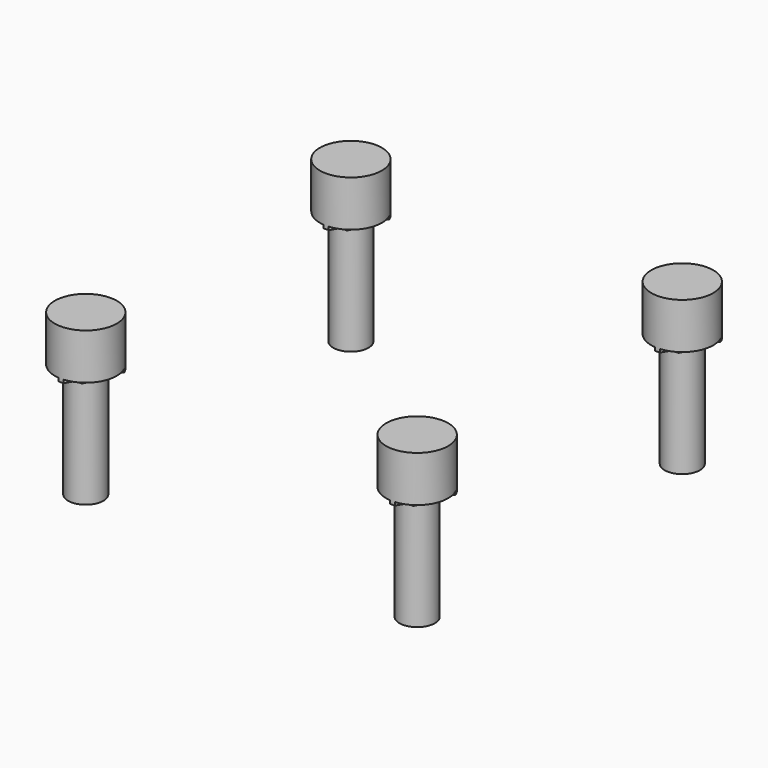
from build123d import *

# Parameters (mm, degrees)
B2HOLE00_HEAD001_R               = 2.9
B2HOLE00_HEAD001_DEPTH           = 4.3
B2HOLE00_SUP1AWAY001_R           = 2.9
B2HOLE00_SUP1AWAY001_DEPTH       = 3.6
B2HOLE00_SUP1001_DEPTH           = 3.6
B2HOLE00_SUP1001_PLACEMENT_ANGLE = 30
B2HOLE00_SUP2001_DEPTH           = 3.9
B2HOLE00_SHANK001_R              = 1.65
B2HOLE00_SHANK001_DEPTH          = 15


with BuildPart() as b2hole00_head001:
    # b2hole00_head001 → b2hole00_head001 (new body)
    with BuildSketch(Plane.XY.offset(9.7)):
        Circle(B2HOLE00_HEAD001_R)
    extrude(amount=B2HOLE00_HEAD001_DEPTH)


with BuildPart() as b2hole00_sup1away001:
    # b2hole00_sup1away001 → b2hole00_sup1away001 (new body)
    with BuildSketch(Plane.XY.offset(9.4)):
        Circle(B2HOLE00_SUP1AWAY001_R)
    extrude(amount=B2HOLE00_SUP1AWAY001_DEPTH)


with BuildPart() as sup1cut001:
    # b2hole00_sup1001 → b2hole00_sup1001 (new body)
    with BuildSketch(Plane.XY):
        Polygon((3.3, 0), (-1.65, 2.857884), (-1.65, -2.857884), align=None)
    extrude(amount=B2HOLE00_SUP1001_DEPTH)


with BuildPart() as sup1cut001_1:
    # b2hole00_sup1001 placement: moved
    add(sup1cut001.part.moved(Location((0, 0, 9.4))).rotate(Axis((0, 0, 9.4), (0, 0, 1)), B2HOLE00_SUP1001_PLACEMENT_ANGLE))

    # sup1cut001: intersect b2hole00_sup1away001
    add(b2hole00_sup1away001.part, mode=Mode.INTERSECT)


with BuildPart() as b2hole00_sup2001:
    # b2hole00_sup2001 → b2hole00_sup2001 (new body)
    with BuildSketch(Plane.XY.offset(9.1)):
        Polygon((1.8975, 0), (0.94875, 1.643283), (-0.94875, 1.643283), (-1.8975, 0), (-0.94875, -1.643283), (0.94875, -1.643283), align=None)
    extrude(amount=B2HOLE00_SUP2001_DEPTH)


with BuildPart() as b2hole00001:
    # b2hole00_shank001 → b2hole00_shank001 (new body)
    with BuildSketch(Plane.XY.offset(-1)):
        Circle(B2HOLE00_SHANK001_R)
    extrude(amount=B2HOLE00_SHANK001_DEPTH)

    # b2hole00001: union b2hole00_head001, sup1cut001, b2hole00_sup2001
    add(b2hole00_head001.part)
    add(sup1cut001_1.part)
    add(b2hole00_sup2001.part)


with BuildPart() as b2hole00001_1:
    # b2hole00001 placement: moved
    add(b2hole00001.part.moved(Location((-15.5, -15.5, -4.5))))


with BuildPart() as b2hole00002:
    # Clone007 base: copy of b2hole00001
    add(b2hole00001_1.part)


with BuildPart() as b2hole00002_1:
    # Clone007 placement: moved
    add(b2hole00002.part.moved(Location((0, 31, 0))))


with BuildPart() as b2hole00003:
    # Clone008 base: copy of b2hole00001
    add(b2hole00001_1.part)


with BuildPart() as b2hole00003_1:
    # Clone008 placement: moved
    add(b2hole00003.part.moved(Location((31, 0, 0))))


with BuildPart() as b2hole00004:
    # Clone009 base: copy of b2hole00001
    add(b2hole00001_1.part)


with BuildPart() as b2hole00004_1:
    # Clone009 placement: moved
    add(b2hole00004.part.moved(Location((31, 31, 0))))


with BuildPart() as b2holes001:
    # b2holes001 base: copy of b2hole00001
    add(b2hole00001_1.part)

    add(b2hole00002_1.part)
    add(b2hole00003_1.part)
    add(b2hole00004_1.part)


solid = b2holes001.part
